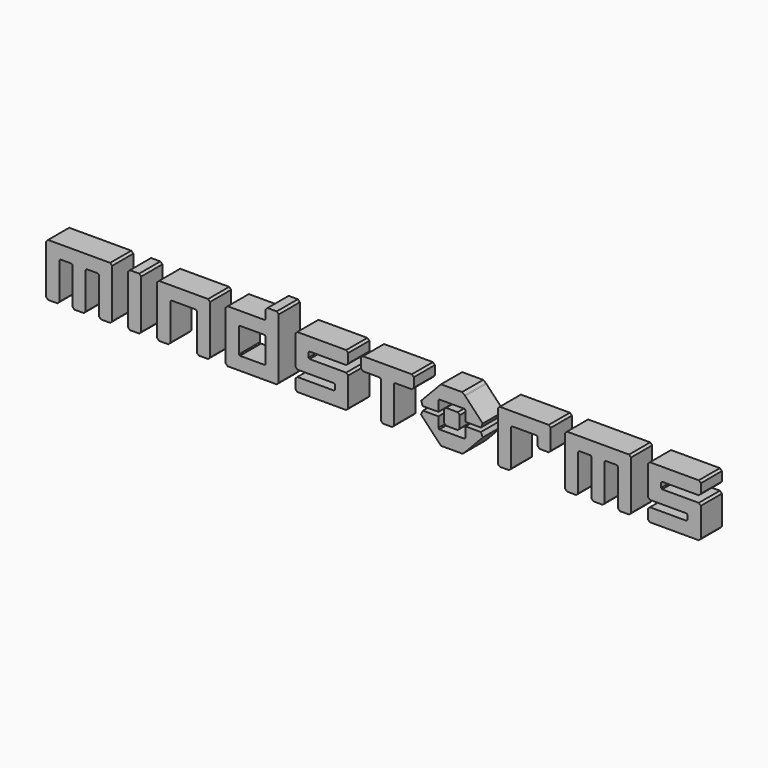
from build123d import *

# Parameters (mm, degrees)
F1_DEPTH = 1.27


with BuildPart() as f1:
    # F0 (on Front) → F1 (new body)
    with BuildSketch(Plane.XZ):
        Polygon((5.14204, -0.35345), (4.427878, -0.35345), (4.427878, -0.830177), (4.427878, -0.844567), (4.379304, -0.891318), (4.364947, -0.891318), (3.184868, -0.891318), (3.168688, -0.891318), (3.121937, -0.839162), (3.121937, -0.831967), (3.123727, -0.35345), (2.405985, -0.35345), (2.375414, -0.35345), (2.290865, -0.553153), (2.305221, -0.567543), (3.114742, -1.42199), (3.148926, -1.456175), (3.251413, -1.560519), (3.298197, -1.560519), (4.253408, -1.560519), (4.285769, -1.560519), (4.384742, -1.470565), (4.417103, -1.441785), (5.246384, -0.567543), (5.260774, -0.551329), (5.167239, -0.35345), align=None)
        Polygon((4.427878, 0.312104), (4.429702, -0.161009), (5.14383, -0.162799), (5.16903, -0.162799), (5.260774, 0.03687), (5.246384, 0.05126), (4.417103, 0.925535), (4.388323, 0.956106), (4.264184, 1.04606), (4.253408, 1.04606), (3.298197, 1.04606), (3.251413, 1.04606), (3.148926, 0.939925), (3.114742, 0.90395), (2.305221, 0.05126), (2.290865, 0.038694), (2.377205, -0.162799), (2.405985, -0.162799), (3.123727, -0.162799), (3.121937, 0.313894), (3.121937, 0.322913), (3.170478, 0.375068), (3.186692, 0.375068), (4.364947, 0.375068), (4.379304, 0.375068), (4.427878, 0.328284), align=None)
        Polygon((8.432143, 1.011875), (8.401573, 1.011875), (6.10806, 1.011875), (6.075632, 1.011875), (5.980307, 0.91834), (5.980307, 0.885946), (5.980307, -1.404019), (5.980307, -1.43459), (6.075632, -1.528125), (6.10806, -1.528125), (6.489395, -1.528125), (6.519998, -1.528125), (6.615324, -1.43459), (6.615324, -1.404019), (6.615324, 0.315718), (6.615324, 0.324703), (6.663898, 0.376859), (6.680045, 0.376859), (7.829521, 0.376859), (7.843944, 0.376859), (7.892519, 0.331898), (7.892519, 0.315718), (7.892519, -0.024271), (7.892519, -0.054874), (7.987844, -0.1502), (8.020238, -0.1502), (8.401573, -0.1502), (8.432143, -0.1502), (8.527535, -0.054874), (8.527535, -0.024271), (8.527535, 0.885946), (8.527535, 0.91834), align=None)
        Polygon((13.837742, 0.12142), (13.837742, 0.315718), (13.837742, 0.331898), (13.882736, 0.376859), (13.898916, 0.376859), (15.616829, 0.376859), (15.647433, 0.376859), (15.744549, 0.474008), (15.744549, 0.504578), (15.744549, 0.885946), (15.744549, 0.91834), (15.647433, 1.011875), (15.616829, 1.011875), (13.328654, 1.011875), (13.296293, 1.011875), (13.202758, 0.91834), (13.202758, 0.885946), (13.202758, -0.450599), (13.202758, -0.482993), (13.296293, -0.580142), (13.328654, -0.580142), (15.051972, -0.580142), (15.059201, -0.580142), (15.107742, -0.623312), (15.107742, -0.639493), (15.107742, -0.831967), (15.107742, -0.846357), (15.057377, -0.891318), (15.050182, -0.893141), (13.328654, -0.893141), (13.296293, -0.893141), (13.202758, -0.990257), (13.202758, -1.022651), (13.202758, -1.404019), (13.202758, -1.43459), (13.296293, -1.528125), (13.328654, -1.528125), (15.616829, -1.528125), (15.647433, -1.528125), (15.744549, -1.43459), (15.744549, -1.404019), (15.744549, -0.069264), (15.744549, -0.03687), (15.647433, 0.056665), (15.616829, 0.056665), (13.900706, 0.056665), (13.884526, 0.056665), (13.837742, 0.105239), align=None)
        Polygon((-3.120138, 0.12142), (-3.120138, 0.315718), (-3.120138, 0.331898), (-3.075178, 0.376859), (-3.058964, 0.376859), (-1.341051, 0.376859), (-1.31048, 0.376859), (-1.213365, 0.474008), (-1.213365, 0.504578), (-1.213365, 0.885946), (-1.213365, 0.91834), (-1.31048, 1.011875), (-1.341051, 1.011875), (-3.629226, 1.011875), (-3.661587, 1.011875), (-3.755122, 0.91834), (-3.755122, 0.885946), (-3.755122, -0.450599), (-3.755122, -0.482993), (-3.661587, -0.580142), (-3.629226, -0.580142), (-1.904117, -0.580142), (-1.896922, -0.580142), (-1.850138, -0.623312), (-1.850138, -0.639493), (-1.850138, -0.831967), (-1.850138, -0.846357), (-1.900537, -0.891318), (-1.907698, -0.893141), (-3.629226, -0.893141), (-3.661587, -0.893141), (-3.755122, -0.990257), (-3.755122, -1.022651), (-3.755122, -1.404019), (-3.755122, -1.43459), (-3.661587, -1.528125), (-3.629226, -1.528125), (-1.341051, -1.528125), (-1.31048, -1.528125), (-1.213365, -1.43459), (-1.213365, -1.404019), (-1.213365, -0.069264), (-1.213365, -0.03687), (-1.31048, 0.056665), (-1.341051, 0.056665), (-3.057174, 0.056665), (-3.073354, 0.056665), (-3.120138, 0.105239), align=None)
        Polygon((-4.652739, 1.560519), (-4.683343, 1.560519), (-5.06292, 1.560519), (-5.095315, 1.560519), (-5.19064, 1.465193), (-5.19064, 1.432799), (-5.19064, 1.07663), (-5.19064, 1.06045), (-5.239214, 1.011875), (-5.253571, 1.011875), (-6.97868, 1.011875), (-7.011074, 1.011875), (-7.104642, 0.91834), (-7.104642, 0.885946), (-7.104642, -1.404019), (-7.104642, -1.43459), (-7.011074, -1.528125), (-6.97868, -1.528125), (-4.683343, -1.528125), (-4.652739, -1.528125), (-4.555623, -1.43459), (-4.555623, -1.404019), (-4.555623, 1.432799), (-4.555623, 1.465193), align=None)
        Polygon((-5.19064, 0.315718), (-5.19064, -0.831967), (-5.19064, -0.846357), (-5.239214, -0.893141), (-5.253571, -0.893141), (-6.406661, -0.893141), (-6.422874, -0.893141), (-6.469592, -0.846357), (-6.469592, -0.831967), (-6.469592, 0.315718), (-6.469592, 0.331898), (-6.422874, 0.376859), (-6.406661, 0.376859), (-5.253571, 0.376859), (-5.239214, 0.376859), (-5.19064, 0.331898), align=None, mode=Mode.SUBTRACT)
        Polygon((1.844708, 1.011875), (1.814138, 1.011875), (-0.474004, 1.011875), (-0.506365, 1.011875), (-0.601757, 0.91834), (-0.601757, 0.885946), (-0.601757, 0.504578), (-0.601757, 0.474008), (-0.506365, 0.376859), (-0.474004, 0.376859), (0.297718, 0.376859), (0.312074, 0.376859), (0.358892, 0.326494), (0.360682, 0.317508), (0.360682, -1.404019), (0.360682, -1.43459), (0.454184, -1.528125), (0.486578, -1.528125), (0.867913, -1.528125), (0.89855, -1.528125), (0.995666, -1.43459), (0.995666, -1.404019), (0.995666, 0.315718), (0.995666, 0.331898), (1.04245, 0.376859), (1.05863, 0.376859), (1.814138, 0.376859), (1.844708, 0.376859), (1.940067, 0.474008), (1.940067, 0.504578), (1.940067, 0.885946), (1.940067, 0.91834), align=None)
        Polygon((-7.953685, 1.011875), (-7.984255, 1.011875), (-10.279625, 1.011875), (-10.311986, 1.011875), (-10.407312, 0.91834), (-10.407312, 0.885946), (-10.407312, -1.404019), (-10.407312, -1.43459), (-10.311986, -1.528125), (-10.279625, -1.528125), (-9.900081, -1.528125), (-9.869511, -1.528125), (-9.772328, -1.43459), (-9.772328, -1.404019), (-9.772328, 0.315718), (-9.772328, 0.324703), (-9.723787, 0.376859), (-9.707573, 0.376859), (-8.556307, 0.376859), (-8.541884, 0.376859), (-8.493343, 0.331898), (-8.493343, 0.315718), (-8.493343, -1.404019), (-8.493343, -1.43459), (-8.397984, -1.528125), (-8.365623, -1.528125), (-7.984255, -1.528125), (-7.953685, -1.528125), (-7.858359, -1.43459), (-7.858359, -1.404019), (-7.858359, 0.885946), (-7.858359, 0.91834), align=None)
        Polygon((12.294299, 1.011875), (12.263728, 1.011875), (9.342394, 1.011875), (9.310033, 1.011875), (9.214641, 0.91834), (9.214641, 0.885946), (9.214641, -1.404019), (9.214641, -1.43459), (9.310033, -1.528125), (9.342394, -1.528125), (9.721938, -1.528125), (9.752542, -1.528125), (9.849691, -1.43459), (9.849691, -1.404019), (9.849691, 0.315718), (9.849691, 0.331898), (9.896441, 0.376859), (9.912655, 0.376859), (10.421709, 0.376859), (10.436099, 0.376859), (10.484707, 0.331898), (10.484707, 0.315718), (10.484707, -1.404019), (10.484707, -1.43459), (10.580033, -1.528125), (10.612394, -1.528125), (10.993728, -1.528125), (11.024332, -1.528125), (11.121481, -1.43459), (11.121481, -1.404019), (11.121481, 0.315718), (11.121481, 0.331898), (11.168232, 0.376859), (11.184446, 0.376859), (11.693533, 0.376859), (11.70789, 0.376859), (11.756498, 0.331898), (11.756498, 0.315718), (11.756498, -1.404019), (11.756498, -1.43459), (11.85179, -1.528125), (11.884184, -1.528125), (12.263728, -1.528125), (12.294299, -1.528125), (12.391481, -1.43459), (12.391481, -1.404019), (12.391481, 0.885946), (12.391481, 0.91834), align=None)
        Polygon((-12.663126, 1.011875), (-12.693696, 1.011875), (-15.616855, 1.011875), (-15.649249, 1.011875), (-15.744574, 0.91834), (-15.744574, 0.885946), (-15.744574, -1.404019), (-15.744574, -1.43459), (-15.649249, -1.528125), (-15.616855, -1.528125), (-15.235487, -1.528125), (-15.204916, -1.528125), (-15.107767, -1.43459), (-15.107767, -1.404019), (-15.107767, 0.315718), (-15.107767, 0.331898), (-15.061016, 0.376859), (-15.044803, 0.376859), (-14.535715, 0.376859), (-14.521358, 0.376859), (-14.472784, 0.331898), (-14.472784, 0.315718), (-14.472784, -1.404019), (-14.472784, -1.43459), (-14.377425, -1.528125), (-14.345064, -1.528125), (-13.963696, -1.528125), (-13.933126, -1.528125), (-13.837767, -1.43459), (-13.837767, -1.404019), (-13.837767, 0.315718), (-13.837767, 0.324703), (-13.791016, 0.376859), (-13.774803, 0.376859), (-13.265748, 0.376859), (-13.251358, 0.376859), (-13.202784, 0.331898), (-13.202784, 0.315718), (-13.202784, -1.404019), (-13.202784, -1.43459), (-13.107425, -1.528125), (-13.075064, -1.528125), (-12.693696, -1.528125), (-12.663126, -1.528125), (-12.565977, -1.43459), (-12.565977, -1.404019), (-12.565977, 0.885946), (-12.565977, 0.91834), align=None)
        Polygon((-11.168257, -1.43459), (-11.168257, -1.404019), (-11.168257, 0.885946), (-11.168257, 0.91834), (-11.265406, 1.011875), (-11.295977, 1.011875), (-11.677345, 1.011875), (-11.709706, 1.011875), (-11.805064, 0.91834), (-11.805064, 0.885946), (-11.805064, -1.404019), (-11.805064, -1.43459), (-11.709706, -1.528125), (-11.677345, -1.528125), (-11.295977, -1.528125), (-11.265406, -1.528125), align=None)
        Polygon((4.021345, 0.125034), (3.523066, 0.125034), (3.490705, 0.125034), (3.393523, 0.027885), (3.393523, -0.0063), (3.393523, -0.504578), (3.393523, -0.535149), (3.490705, -0.630507), (3.523066, -0.630507), (4.021345, -0.630507), (4.053739, -0.630507), (4.150888, -0.535149), (4.150888, -0.504578), (4.150888, -0.0063), (4.150888, 0.027885), (4.053739, 0.125034), align=None)
    extrude(amount=-F1_DEPTH)


solid = f1.part
